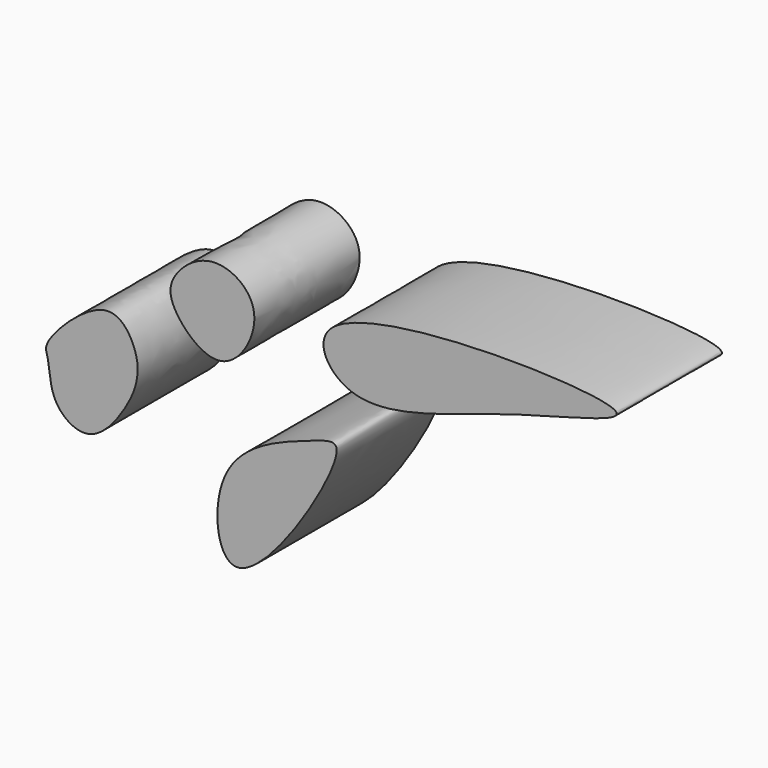
from build123d import *

# Parameters (mm, degrees)
F1_DEPTH = 55.7998120785


with BuildPart() as f1:
    # F0 (on Front) → F1 (new body)
    with BuildSketch(Plane.XZ):
        with BuildLine():
            add(Edge.make_bspline(
                [(-50.3932088614, -20.6972062588), (-53.1605980151, -15.6629167978), (-52.9929755529, -5.3203132219), (-57.0570630098, 0.1017999027), (-27.9841341913, 29.2206318234), (-15.8692056897, 9.8980452006), (-15.3808815324, -0.2790192775), (-18.656476799, -11.0541673251), (-34.6485328392, -34.0207157808), (-47.5680494596, -25.8365883305), (-50.3932088614, -20.6972062588)],
                knots=[0, 0, 0, 0, 0.124947882, 0.2009977306, 0.3822651463, 0.5078162674, 0.6083907329, 0.7167419415, 0.8724437859, 1, 1, 1, 1], degree=3))
        make_face()
    extrude(amount=F1_DEPTH)


with BuildPart() as f1b:
    # F0 (on Front) → F1, piece 2 (new body)
    with BuildSketch(Plane.XZ):
        with BuildLine():
            add(Edge.make_bspline(
                [(0, 30.2959382534), (-2.4891025865, 34.8672791365), (-2.1296202937, 43.2153416399), (16.2220882097, 58.3692817649), (41.3387889379, 42.4421254446), (21.3126537064, 7.0974046549), (3.4772912566, 23.9097475959), (0, 30.2959382534)],
                knots=[0, 0, 0, 0, 0.1543430478, 0.3511964928, 0.5550799891, 0.7843818357, 1, 1, 1, 1], degree=3))
        make_face()
    extrude(amount=F1_DEPTH)


with BuildPart() as f1c:
    # F0 (on Front) → F1, piece 3 (new body)
    with BuildSketch(Plane.XZ):
        with BuildLine():
            add(Edge.make_bspline(
                [(68.6533749104, 0), (69.119067456, -9.7365118019), (21.1288393461, -87.9373910757), (12.7328226193, -14.7020808968), (54.775514341, -1.462854511), (68.4740946423, 3.748319491), (68.6533749104, 0)],
                knots=[0, 0, 0, 0, 0.3499052673, 0.5881079323, 0.8652950091, 1, 1, 1, 1], degree=3))
        make_face()
    extrude(amount=F1_DEPTH)


with BuildPart() as f1d:
    # F0 (on Front) → F1, piece 4 (new body)
    with BuildSketch(Plane.XZ):
        with BuildLine():
            add(Edge.make_bspline(
                [(186.5127682686, 53.2149523497), (176.9379260284, 58.9361590176), (46.1632686525, 61.4719855452), (74.5652190982, 10.6759505097), (135.7568079379, 38.4346678138), (192.3628350324, 49.7193917819), (186.5127682686, 53.2149523497)],
                knots=[0, 0, 0, 0, 0.3558150318, 0.5059435754, 0.78260303, 1, 1, 1, 1], degree=3))
        make_face()
    extrude(amount=F1_DEPTH)


solid = Compound([f1.part, f1b.part, f1c.part, f1d.part])
